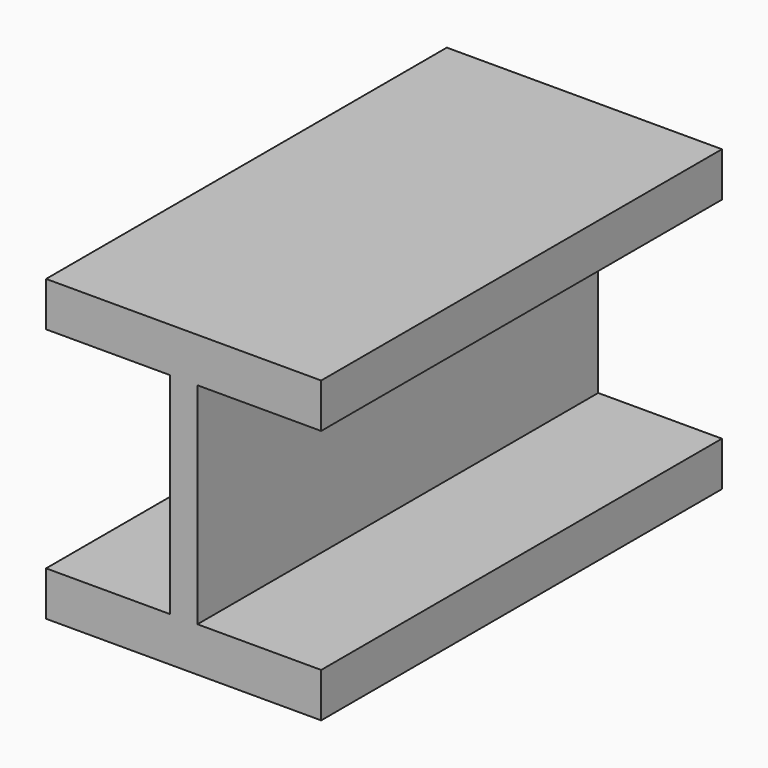
from build123d import *

# Parameters (mm, degrees)
F1_DEPTH = 762


with BuildPart() as f1:
    # F0 (on Front) → F1 (new body)
    with BuildSketch(Plane.XZ):
        Polygon((0, -227.584), (0, 0), (-21.0185, 0), (-21.0185, -160.02), (-209.2325, -160.02), (-209.2325, -227.584), align=None)
        Polygon((-21.0185, 0), (0, 0), (0, 227.584), (-209.2325, 227.584), (-209.2325, 160.02), (-21.0185, 160.02), align=None)
        Polygon((0, 227.584), (0, 0), (0, -227.584), (209.2325, -227.584), (209.2325, -160.02), (21.0185, -160.02), (21.0185, 0), (21.0185, 160.02), (209.2325, 160.02), (209.2325, 227.584), align=None)
    extrude(amount=F1_DEPTH)


solid = f1.part
